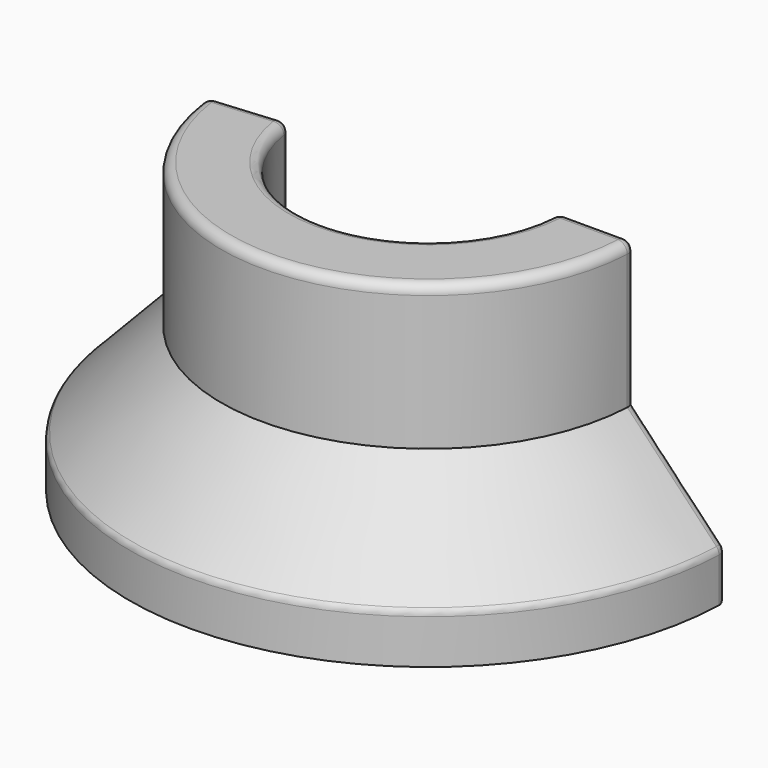
from build123d import *

# Parameters (mm, degrees)
REVOLUTION_ANGLE = -175
FILLET_R         = 1


with BuildPart() as part:
    # Sketch → Revolution (revolve)
    with BuildSketch(Plane.XZ):
        Polygon((13.5, 0), (13.5, 30), (21.5, 30), (21.5, 15), (31, 5), (31, 0), align=None)
    revolve(axis=Axis((0, 0, 0), (0, 0, 1)), revolution_arc=REVOLUTION_ANGLE)

    # Fillet
    fillet_edges = [part.edges().sort_by_distance(p)[0] for p in [
        (0.588862, -13.487151, 0),
        (-13.448628, -1.176603, 15),
        (13.5, 0, 15),
        (0.588862, -13.487151, 30),
        (0.937817, -21.479537, 30),
        (1.352201, -30.970495, 5),
        (22.25, 0, 0),
        (-22.165332, -1.939215, 0),
        (17.5, 0, 30),
        (-17.433407, -1.525225, 30),
        (31, 0, 2.5),
        (26.25, 0, 10),
        (21.5, 0, 22.5),
        (-30.882036, -2.701828, 2.5),
        (-26.150111, -2.287838, 10),
        (-21.418186, -1.873848, 22.5),
    ]]
    fillet(fillet_edges, radius=FILLET_R)


solid = part.part
